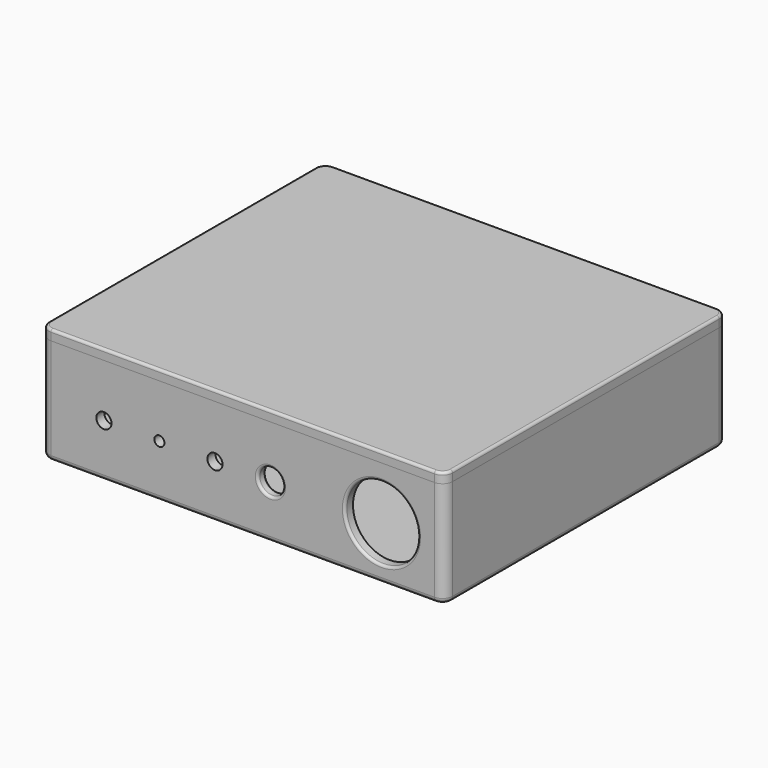
from build123d import *

# Parameters (mm, degrees)
PAD_DEPTH       = 21
SKETCH001_W     = 76
SKETCH001_H     = 66
POCKET_DEPTH    = 19
SKETCH002_W     = 56
SKETCH002_H     = 40
PAD001_DEPTH    = 10
SKETCH003_R     = 9.25
POCKET001_DEPTH = 59
FILLET_R        = 0.5
SKETCH004_W     = 17.5
SKETCH004_H     = 4.5
POCKET002_DEPTH = 1
POCKET003_DEPTH = 5
SKETCH006_W     = 5
SKETCH006_H     = 17.5
POCKET004_DEPTH = 1
SKETCH007_R     = 7.25
SKETCH007_R_2   = 2.5
SKETCH007_R_3   = 1
SKETCH007_R_4   = 1.5
POCKET005_DEPTH = 3
FILLET001_R     = 0.5
FILLET002_R     = 1
PAD002_DEPTH    = 2
FILLET003_R     = 0.5
PAD003_DEPTH    = 4
FILLET004_R     = 0.9
FILLET005_R     = 0.5


with BuildPart() as container:
    # Sketch → Pad (new body)
    with BuildSketch(Plane.XY):
        with BuildLine():
            Line((2, 0), (78, 0))
            ThreePointArc((78, 0), (79.414214, 0.585786), (80, 2))
            Line((80, 2), (80, 68))
            ThreePointArc((80, 68), (79.414214, 69.414214), (78, 70))
            Line((78, 70), (2, 70))
            ThreePointArc((2, 70), (0.585786, 69.414214), (0, 68))
            Line((0, 68), (0, 2))
            ThreePointArc((0, 2), (0.585786, 0.585786), (2, 0))
        make_face()
    extrude(amount=PAD_DEPTH)

    # Sketch001 (on Face10 of Pad) → Pocket (cut)
    with BuildSketch(Plane.XY.offset(21)):
        with Locations((40, 35)):
            Rectangle(SKETCH001_W, SKETCH001_H)
    extrude(amount=-POCKET_DEPTH, mode=Mode.SUBTRACT)

    # Sketch002 (on Face15 of Pocket) → Pad001 (join)
    with BuildSketch(Plane.XY.offset(2)):
        with Locations((40, 48)):
            Rectangle(SKETCH002_W, SKETCH002_H)
    extrude(amount=PAD001_DEPTH)

    # Sketch003 (on Face16 of Pad001) → Pocket001 (cut)
    with BuildSketch(Plane(origin=(12, 0, 0), x_dir=(0, -1, 0), z_dir=(-1, 0, 0))):
        with Locations((-57.5, 11.5)):
            Circle(SKETCH003_R)
        with Locations((-38.5, 11.5)):
            Circle(SKETCH003_R)
    extrude(amount=-POCKET001_DEPTH, mode=Mode.SUBTRACT)

    # Fillet
    fillet_edges = [container.edges().sort_by_distance(p)[0] for p in [
        (40, 28, 12),
        (12, 28, 7),
        (68, 28, 7),
        (40, 29.263523, 12),
        (40, 66.736477, 12),
    ]]
    fillet(fillet_edges, radius=FILLET_R)

    # Sketch004 (on Face6 of Fillet) → Pocket002 (cut)
    with BuildSketch(Plane.YZ.offset(2)):
        with Locations((19.25, 4.25)):
            Rectangle(SKETCH004_W, SKETCH004_H)
    extrude(amount=-POCKET002_DEPTH, mode=Mode.SUBTRACT)

    # Sketch005 (on Face22 of Pocket002) → Pocket003 (cut)
    with BuildSketch(Plane.YZ.offset(1)):
        with BuildLine():
            Line((16.25, 6.5), (22.25, 6.5))
            ThreePointArc((22.25, 3.2), (23.9, 4.85), (22.25, 6.5))
            Line((22.25, 3.2), (16.25, 3.2))
            ThreePointArc((16.25, 6.5), (14.6, 4.85), (16.25, 3.2))
        make_face()
    extrude(amount=-POCKET003_DEPTH, mode=Mode.SUBTRACT)

    # Sketch006 (on Face2 of Pocket003) → Pocket004 (cut)
    with BuildSketch(Plane.XY.offset(2)):
        with Locations((23.5, 19.25)):
            Rectangle(SKETCH006_W, SKETCH006_H)
    extrude(amount=-POCKET004_DEPTH, mode=Mode.SUBTRACT)

    # Sketch007 (on Face30 of Pocket004) → Pocket005 (cut)
    with BuildSketch(Plane.XZ):
        with Locations((67.5, 10.5)):
            Circle(SKETCH007_R)
        with Locations((45.5, 10.5)):
            Circle(SKETCH007_R_2)
        with Locations((23.5, 10.5)):
            Circle(SKETCH007_R_3)
        with Locations((12.5, 10.5)):
            Circle(SKETCH007_R_4)
        with Locations((34.5, 10.5)):
            Circle(SKETCH007_R_4)
    extrude(amount=-POCKET005_DEPTH, mode=Mode.SUBTRACT)

    # Fillet001
    fillet001_edges = [container.edges().sort_by_distance(p)[0] for p in [
        (43, 2, 10.5),
        (43, 0, 10.5),
        (60.25, 0, 10.5),
    ]]
    fillet(fillet001_edges, radius=FILLET001_R)

    # Fillet002
    fillet002_edges = [container.edges().sort_by_distance(p)[0] for p in [
        (40, 0, 0),
    ]]
    fillet(fillet002_edges, radius=FILLET002_R)


with BuildPart() as lid:
    # Sketch008 → Pad002 (new body)
    with BuildSketch(Plane.XY):
        with BuildLine():
            Line((2, 0), (78, 0))
            ThreePointArc((78, 0), (79.414214, 0.585786), (80, 2))
            Line((80, 2), (80, 68))
            ThreePointArc((80, 68), (79.414214, 69.414214), (78, 70))
            Line((78, 70), (2, 70))
            ThreePointArc((2, 70), (0.585786, 69.414214), (0, 68))
            Line((0, 68), (0, 2))
            ThreePointArc((0, 2), (0.585786, 0.585786), (2, 0))
        make_face()
    extrude(amount=PAD002_DEPTH)

    # Fillet003
    fillet003_edges = [lid.edges().sort_by_distance(p)[0] for p in [
        (40, 0, 2),
    ]]
    fillet(fillet003_edges, radius=FILLET003_R)

    # Sketch009 (on Face4 of Fillet003) → Pad003 (join)
    with BuildSketch(Plane(origin=(0, 0, 0), x_dir=(1, 0, 0), z_dir=(0, 0, -1))):
        with BuildLine():
            Line((2.1, -9.1), (2.1, -4.1))
            ThreePointArc((4.1, -2.1), (2.685786, -2.685786), (2.1, -4.1))
            Line((4.1, -2.1), (9.1, -2.1))
            Line((9.1, -2.1), (9.1, -4.1))
            Line((9.1, -4.1), (4.1, -4.1))
            Line((4.1, -4.1), (4.1, -9.1))
            Line((4.1, -9.1), (2.1, -9.1))
        make_face()
        with BuildLine():
            Line((70.9, -2.1), (75.9, -2.1))
            ThreePointArc((77.9, -4.1), (77.314214, -2.685786), (75.9, -2.1))
            Line((77.9, -4.1), (77.9, -9.1))
            Line((77.9, -9.1), (75.9, -9.1))
            Line((75.9, -9.1), (75.9, -4.1))
            Line((75.9, -4.1), (70.9, -4.1))
            Line((70.9, -4.1), (70.9, -2.1))
        make_face()
        with BuildLine():
            Line((77.9, -60.9), (77.9, -65.9))
            ThreePointArc((75.9, -67.9), (77.314214, -67.314214), (77.9, -65.9))
            Line((75.9, -67.9), (70.9, -67.9))
            Line((70.9, -67.9), (70.9, -65.9))
            Line((70.9, -65.9), (75.9, -65.9))
            Line((75.9, -65.9), (75.9, -60.9))
            Line((75.9, -60.9), (77.9, -60.9))
        make_face()
        with BuildLine():
            Line((2.1, -60.9), (2.1, -65.9))
            ThreePointArc((2.1, -65.9), (2.685786, -67.314214), (4.1, -67.9))
            Line((4.1, -67.9), (9.1, -67.9))
            Line((9.1, -67.9), (9.1, -65.9))
            Line((9.1, -65.9), (4.1, -65.9))
            Line((4.1, -65.9), (4.1, -60.9))
            Line((4.1, -60.9), (2.1, -60.9))
        make_face()
    extrude(amount=PAD003_DEPTH)

    # Fillet004
    fillet004_edges = [lid.edges().sort_by_distance(p)[0] for p in [
        (6.6, 2.1, -4),
        (73.4, 2.1, -4),
        (77.9, 63.4, -4),
        (6.6, 67.9, -4),
        (9.1, 2.1, -2),
        (70.9, 2.1, -2),
        (77.9, 60.9, -2),
        (2.1, 60.9, -2),
        (70.9, 67.9, -2),
        (9.1, 67.9, -2),
        (2.1, 9.1, -2),
        (77.9, 9.1, -2),
    ]]
    fillet(fillet004_edges, radius=FILLET004_R)

    # Fillet005
    fillet005_edges = [lid.edges().sort_by_distance(p)[0] for p in [
        (9.1, 65.9, -2),
        (4.1, 60.9, -2),
        (4.1, 63.4, -4),
        (9.1, 4.1, -2),
        (6.6, 4.1, -4),
        (4.1, 9.1, -2),
        (70.9, 65.9, -2),
        (75.9, 60.9, -2),
        (73.4, 65.9, -4),
        (70.9, 4.1, -2),
        (73.4, 4.1, -4),
        (75.9, 9.1, -2),
        (75.9, 6.6, -4),
        (75.9, 63.4, -4),
        (4.1, 6.6, -4),
        (6.6, 65.9, -4),
    ]]
    fillet(fillet005_edges, radius=FILLET005_R)


with BuildPart() as lid_1:
    # Body001 placement: moved
    add(lid.part.moved(Location((0, 0, 21))))


solid = Compound([container.part, lid_1.part])
